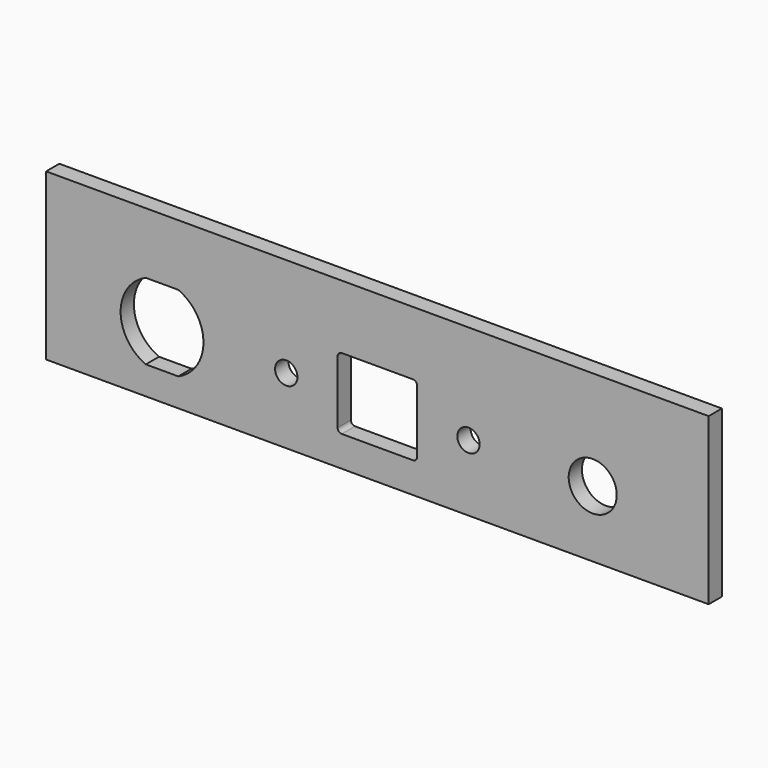
from build123d import *

# Parameters (mm, degrees)
F0_W     = 101.6
F0_H     = 25.4
F1_DEPTH = 2.54
F2_R     = 1.7145
F2_R_2   = 3.683
F3_DEPTH = 2.541


with BuildPart() as f1:
    # F0 (on Front) → F1 (new body)
    with BuildSketch(Plane.XZ):
        with Locations((0, 2.54)):
            Rectangle(F0_W, F0_H)
    extrude(amount=-F1_DEPTH)

    # F2 (on face) → F3 (cut, through all)
    with BuildSketch(Plane.XZ):
        with BuildLine():
            Line((-30.531318, 5.842), (-35.508682, 5.842))
            ThreePointArc((-35.508682, 5.842), (-39.37, 0), (-35.508682, -5.842))
            Line((-35.508682, -5.842), (-30.531318, -5.842))
            ThreePointArc((-30.531318, -5.842), (-26.67, 0), (-30.531318, 5.842))
        make_face()
        with Locations((-13.97, 0)):
            Circle(F2_R)
        with Locations((13.97, 0)):
            Circle(F2_R)
        with Locations((33.02, 0)):
            Circle(F2_R_2)
        with BuildLine():
            ThreePointArc((6.096, 4.826), (5.910013, 5.275013), (5.461, 5.461))
            Line((5.461, 5.461), (-5.461, 5.461))
            ThreePointArc((-5.461, 5.461), (-5.910013, 5.275013), (-6.096, 4.826))
            Line((-6.096, 4.826), (-6.096, -4.826))
            ThreePointArc((-6.096, -4.826), (-5.910013, -5.275013), (-5.461, -5.461))
            Line((-5.461, -5.461), (5.461, -5.461))
            ThreePointArc((5.461, -5.461), (5.910013, -5.275013), (6.096, -4.826))
            Line((6.096, -4.826), (6.096, 4.826))
        make_face()
    extrude(amount=-F3_DEPTH, mode=Mode.SUBTRACT)


solid = f1.part
